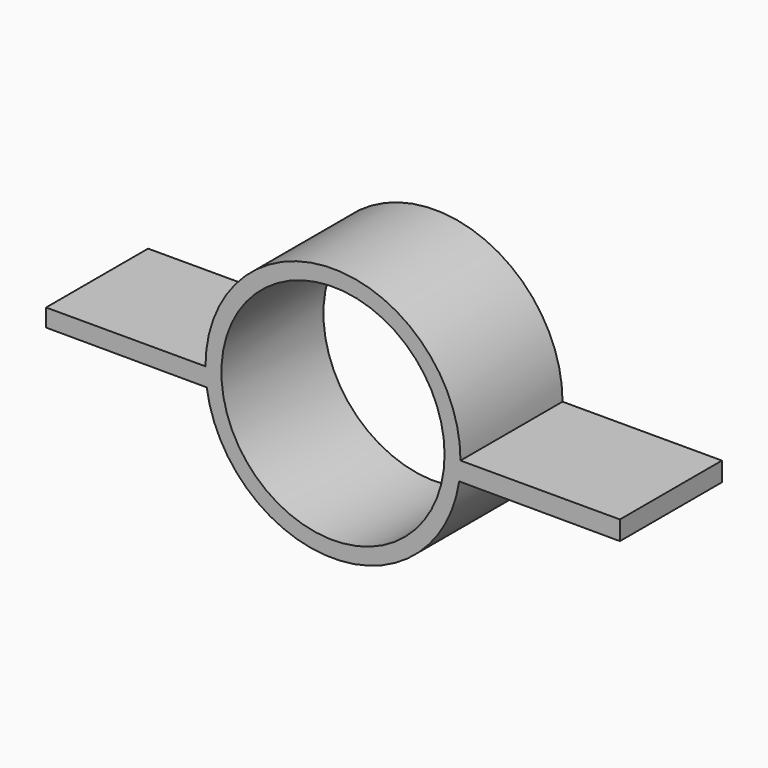
from build123d import *

# Parameters (mm, degrees)
F0_R     = 17.5
F1_DEPTH = 20


with BuildPart() as f1:
    # F0 (on Front) → F1 (new body)
    with BuildSketch(Plane.XZ):
        with BuildLine():
            Line((45, 0), (20, 0))
            ThreePointArc((20, 0), (0, 20), (-20, 0))
            Line((-20, 0), (-45, 0))
            Line((-45, 0), (-45, -2.778499))
            Line((-45, -2.778499), (-19.797258, -2.840526))
            ThreePointArc((-19.797258, -2.840526), (-0.049222, -19.999939), (19.783036, -2.937938))
            Line((19.783036, -2.937938), (45, -3))
            Line((45, -3), (45, 0))
        make_face()
        Circle(F0_R, mode=Mode.SUBTRACT)
    extrude(amount=F1_DEPTH)


solid = f1.part
